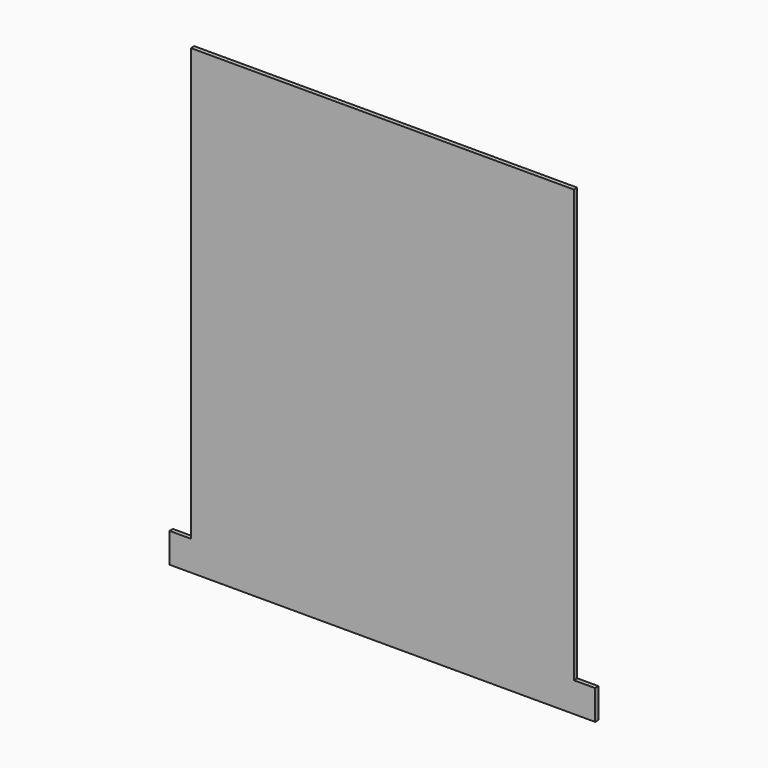
from build123d import *

# Parameters (mm, degrees)
F0_W     = 180
F0_H     = 203
F1_DEPTH = 2


with BuildPart() as f1:
    # F0 (on Front) → F1 (new body)
    with BuildSketch(Plane.XZ):
        Polygon((100, -101.5), (90, -101.5), (-90, -101.5), (-100, -101.5), (-100, -115.5), (100, -115.5), align=None)
        Rectangle(F0_W, F0_H)
    extrude(amount=F1_DEPTH)


solid = f1.part
